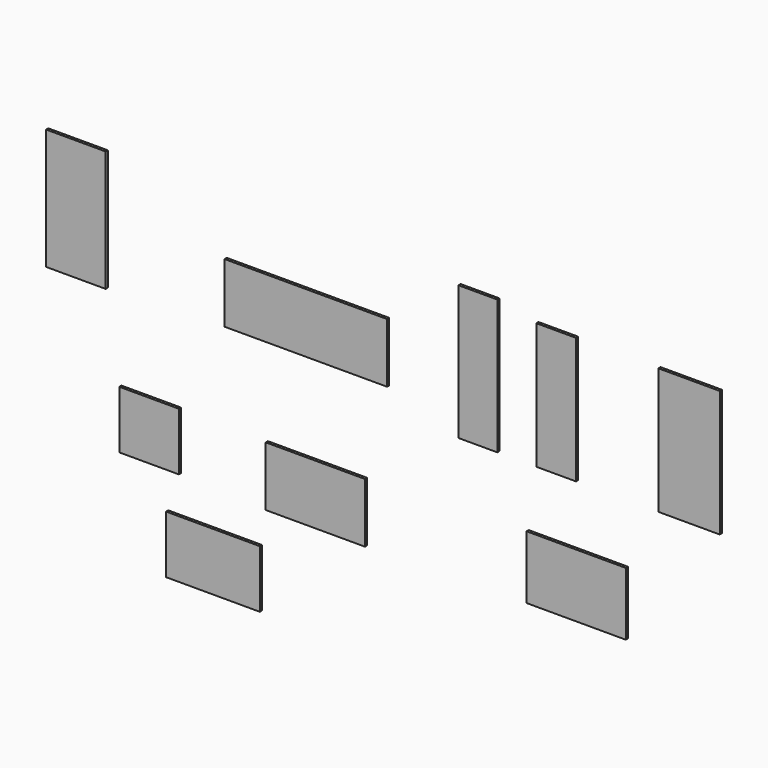
from build123d import *

# Parameters (mm, degrees)
F0_W      = 340
F0_H      = 700
F1_DEPTH  = 15
F0_W_2    = 220
F2_DEPTH  = 15
F0_W_3    = 215
F0_H_2    = 745
F3_DEPTH  = 15
F4_W      = 900
F4_H      = 330
F5_DEPTH  = 15
F0_W_4    = 550
F0_H_3    = 350
F6_DEPTH  = 15
F4_W_2    = 330
F4_H_2    = 670
F7_DEPTH  = 15
F4_W_3    = 550
F8_DEPTH  = 15
F4_H_3    = 320
F9_DEPTH  = 15
F4_W_4    = 520
F10_DEPTH = 15


with BuildPart() as f1:
    # F0 (on Front) → F1 (new body)
    with BuildSketch(Plane.XZ):
        with Locations((1314.281249, -369.523013)):
            Rectangle(F0_W, F0_H)
    extrude(amount=F1_DEPTH)


with BuildPart() as f2:
    # F0 (on Front) → F2 (new body)
    with BuildSketch(Plane.XZ):
        with Locations((578.111008, -369.523013)):
            Rectangle(F0_W_2, F0_H)
    extrude(amount=F2_DEPTH)


with BuildPart() as f3:
    # F0 (on Front) → F3 (new body)
    with BuildSketch(Plane.XZ):
        with Locations((144.285066, -347.023013)):
            Rectangle(F0_W_3, F0_H_2)
    extrude(amount=F3_DEPTH)


with BuildPart() as f5:
    # F4 (on Front) → F5 (new body)
    with BuildSketch(Plane.XZ):
        with Locations((-808.811921, -433.225236)):
            Rectangle(F4_W, F4_H)
    extrude(amount=F5_DEPTH)


with BuildPart() as f6:
    # F0 (on Front) → F6 (new body)
    with BuildSketch(Plane.XZ):
        with Locations((688.751453, -1226.805162)):
            Rectangle(F0_W_4, F0_H_3)
    extrude(amount=F6_DEPTH)


with BuildPart() as f7:
    # F4 (on Front) → F7 (new body)
    with BuildSketch(Plane.XZ):
        with Locations((-2082.666001, -293.029227)):
            Rectangle(F4_W_2, F4_H_2)
    extrude(amount=F7_DEPTH)


with BuildPart() as f8:
    # F4 (on Front) → F8 (new body)
    with BuildSketch(Plane.XZ):
        with Locations((-756.04341, -1253.029189)):
            Rectangle(F4_W_3, F4_H)
    extrude(amount=F8_DEPTH)


with BuildPart() as f9:
    # F4 (on Front) → F9 (new body)
    with BuildSketch(Plane.XZ):
        with Locations((-1677.1942, -1240.739551)):
            Rectangle(F4_W_2, F4_H_3)
    extrude(amount=F9_DEPTH)


with BuildPart() as f10:
    # F4 (on Front) → F10 (new body)
    with BuildSketch(Plane.XZ):
        with Locations((-1323.52077, -1765.020337)):
            Rectangle(F4_W_4, F4_H_3)
    extrude(amount=F10_DEPTH)


solid = Compound([f1.part, f2.part, f3.part, f5.part, f6.part, f7.part, f8.part, f9.part, f10.part])
